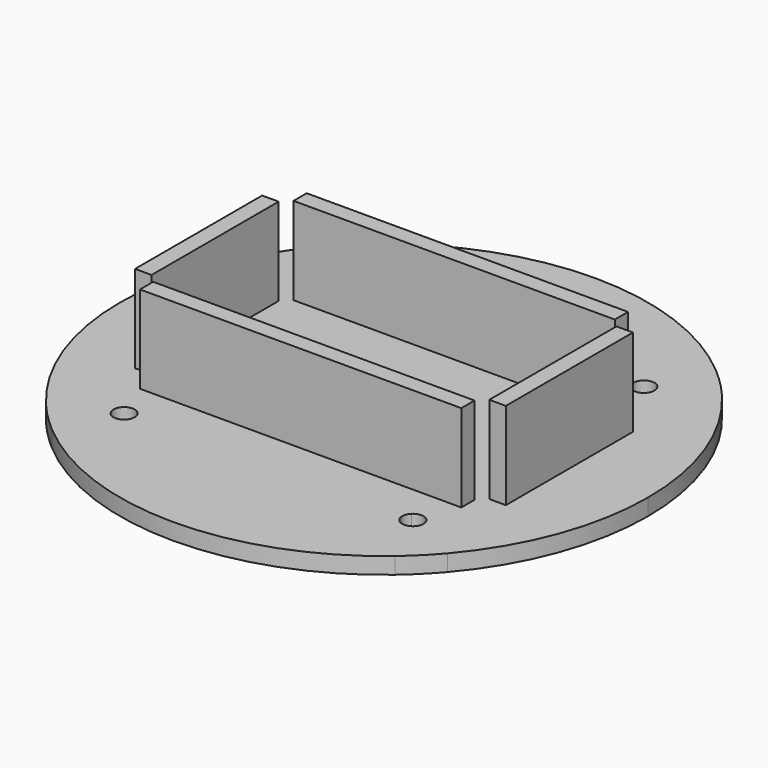
from build123d import *

# Parameters (mm, degrees)
F1_DEPTH = 2.54
F2_W     = 2.54
F2_H     = 24.46
F2_W_2   = 49.46
F2_H_2   = 2.54
F3_DEPTH = 16


with BuildPart() as f1:
    # F0 (on Top) → F1 (new body)
    with BuildSketch(Plane.XY):
        with BuildLine():
            ThreePointArc((-29.0921250892, -24.6019970286), (-38.1, 0), (-29.0921250892, 24.6019970286))
            Line((-29.0921250892, 24.6019970286), (-30.8940515778, 26.4039235173))
            ThreePointArc((-30.8940515778, 26.4039235173), (-40.64, 0), (-30.8940515778, -26.4039235173))
            Line((-30.8940515778, -26.4039235173), (-29.0921250892, -24.6019970286))
        make_face()
        with BuildLine():
            ThreePointArc((-29.0921250892, 24.6019970286), (-26.9407683632, 26.9407683632), (-24.6019970286, 29.0921250892))
            Line((-24.6019970286, 29.0921250892), (-26.4039235173, 30.8940515778))
            ThreePointArc((-26.4039235173, 30.8940515778), (-28.7368195874, 28.7368195874), (-30.8940515778, 26.4039235173))
            Line((-30.8940515778, 26.4039235173), (-29.0921250892, 24.6019970286))
        make_face()
        with BuildLine():
            Line((-26.4039235173, 30.8940515778), (-24.6019970286, 29.0921250892))
            ThreePointArc((-24.6019970286, 29.0921250892), (0, 38.1), (24.6019970286, 29.0921250892))
            Line((24.6019970286, 29.0921250892), (26.4039235173, 30.8940515778))
            ThreePointArc((26.4039235173, 30.8940515778), (0, 40.64), (-26.4039235173, 30.8940515778))
        make_face()
        with BuildLine():
            Line((26.4039235173, 30.8940515778), (24.6019970286, 29.0921250892))
            ThreePointArc((24.6019970286, 29.0921250892), (26.9407683632, 26.9407683632), (29.0921250892, 24.6019970286))
            Line((29.0921250892, 24.6019970286), (30.8940515778, 26.4039235173))
            ThreePointArc((30.8940515778, 26.4039235173), (28.7368195874, 28.7368195874), (26.4039235173, 30.8940515778))
        make_face()
        with BuildLine():
            Line((30.8940515778, 26.4039235173), (29.0921250892, 24.6019970286))
            ThreePointArc((29.0921250892, 24.6019970286), (35.7772271557, 13.0996189659), (38.1, 0))
            ThreePointArc((38.1, 0), (35.7772271557, -13.0996189659), (29.0921250892, -24.6019970286))
            Line((29.0921250892, -24.6019970286), (30.8940515778, -26.4039235173))
            ThreePointArc((30.8940515778, -26.4039235173), (38.1257383937, -14.0725858299), (40.64, 0))
            ThreePointArc((40.64, 0), (38.1257383937, 14.0725858299), (30.8940515778, 26.4039235173))
        make_face()
        with BuildLine():
            ThreePointArc((29.0921250892, -24.6019970286), (26.9407683632, -26.9407683632), (24.6019970286, -29.0921250892))
            Line((24.6019970286, -29.0921250892), (26.4039235173, -30.8940515778))
            ThreePointArc((26.4039235173, -30.8940515778), (28.7368195874, -28.7368195874), (30.8940515778, -26.4039235173))
            Line((30.8940515778, -26.4039235173), (29.0921250892, -24.6019970286))
        make_face()
        with BuildLine():
            ThreePointArc((-24.6019970286, -29.0921250892), (-26.9407683632, -26.9407683632), (-29.0921250892, -24.6019970286))
            Line((-29.0921250892, -24.6019970286), (-30.8940515778, -26.4039235173))
            ThreePointArc((-30.8940515778, -26.4039235173), (-28.7368195874, -28.7368195874), (-26.4039235173, -30.8940515778))
            Line((-26.4039235173, -30.8940515778), (-24.6019970286, -29.0921250892))
        make_face()
        with BuildLine():
            Line((-25.4, -20.9098719395), (-25.4, 20.9098719395))
            Line((-25.4, 20.9098719395), (-29.0921250892, 24.6019970286))
            ThreePointArc((-29.0921250892, 24.6019970286), (-38.1, 0), (-29.0921250892, -24.6019970286))
            Line((-29.0921250892, -24.6019970286), (-25.4, -20.9098719395))
        make_face()
        with BuildLine():
            Line((24.6019970286, 29.0921250892), (20.9098719395, 25.4))
            Line((20.9098719395, 25.4), (22.225, 25.4))
            Line((22.225, 25.4), (25.4, 25.4))
            Line((25.4, 25.4), (25.4, 22.225))
            Line((25.4, 22.225), (25.4, 20.9098719395))
            Line((25.4, 20.9098719395), (29.0921250892, 24.6019970286))
            ThreePointArc((29.0921250892, 24.6019970286), (26.9407683632, 26.9407683632), (24.6019970286, 29.0921250892))
        make_face()
        with BuildLine():
            Line((20.9098719395, -25.4), (24.6019970286, -29.0921250892))
            ThreePointArc((24.6019970286, -29.0921250892), (26.9407683632, -26.9407683632), (29.0921250892, -24.6019970286))
            Line((29.0921250892, -24.6019970286), (25.4, -20.9098719395))
            Line((25.4, -20.9098719395), (25.4, -22.225))
            Line((25.4, -22.225), (25.4, -25.4))
            Line((25.4, -25.4), (22.2249999363, -25.4))
            Line((22.2249999363, -25.4), (20.9098719395, -25.4))
        make_face()
        with BuildLine():
            Line((-25.4, -22.2250000637), (-25.4, -20.9098719395))
            Line((-25.4, -20.9098719395), (-29.0921250892, -24.6019970286))
            ThreePointArc((-29.0921250892, -24.6019970286), (-26.9407683632, -26.9407683632), (-24.6019970286, -29.0921250892))
            Line((-24.6019970286, -29.0921250892), (-20.9098719395, -25.4))
            Line((-20.9098719395, -25.4), (-22.225, -25.4))
            Line((-22.225, -25.4), (-25.4, -25.4))
            Line((-25.4, -25.4), (-25.4, -22.2250000637))
        make_face()
        with BuildLine():
            Line((-20.9098719395, -25.4), (-24.6019970286, -29.0921250892))
            ThreePointArc((-24.6019970286, -29.0921250892), (0, -38.1), (24.6019970286, -29.0921250892))
            Line((24.6019970286, -29.0921250892), (20.9098719395, -25.4))
            Line((20.9098719395, -25.4), (-20.9098719395, -25.4))
        make_face()
        with BuildLine():
            ThreePointArc((24.6019970286, -29.0921250892), (0, -38.1), (-24.6019970286, -29.0921250892))
            Line((-24.6019970286, -29.0921250892), (-26.4039235173, -30.8940515778))
            ThreePointArc((-26.4039235173, -30.8940515778), (0, -40.64), (26.4039235173, -30.8940515778))
            Line((26.4039235173, -30.8940515778), (24.6019970286, -29.0921250892))
        make_face()
        with BuildLine():
            ThreePointArc((-24.4700640303, -24.4700640303), (-25.1583175035, -23.4400199272), (-25.4, -22.2250000637))
            Line((-25.4, -22.2250000637), (-25.4, -25.4))
            Line((-25.4, -25.4), (-24.4700640303, -24.4700640303))
        make_face()
        with BuildLine():
            Line((-24.4700640303, -24.4700640303), (-25.4, -25.4))
            Line((-25.4, -25.4), (-22.225, -25.4))
            ThreePointArc((-22.225, -25.4), (-23.4400198978, -25.1583175157), (-24.4700640303, -24.4700640303))
        make_face()
        with BuildLine():
            Line((-23.3789629116, -23.3789629116), (-24.4700640303, -24.4700640303))
            ThreePointArc((-24.4700640303, -24.4700640303), (-23.4400198978, -25.1583175157), (-22.225, -25.4))
            ThreePointArc((-22.225, -25.4), (-21.0099801022, -25.1583175157), (-19.9799359697, -24.4700640303))
            ThreePointArc((-19.9799359697, -24.4700640303), (-19.2916824843, -23.4400198978), (-19.05, -22.225))
            ThreePointArc((-19.05, -22.225), (-19.2916824843, -21.0099801022), (-19.9799359697, -19.9799359697))
            Line((-19.9799359697, -19.9799359697), (-21.0710370884, -21.0710370884))
            ThreePointArc((-21.0710370884, -21.0710370884), (-20.7172747969, -21.6004797726), (-20.59305, -22.225))
            ThreePointArc((-20.59305, -22.225), (-21.6004797726, -23.7327252031), (-23.3789629116, -23.3789629116))
        make_face()
        with BuildLine():
            ThreePointArc((-24.4700640303, -19.9799359697), (-25.1583175279, -21.0099801317), (-25.4, -22.2250000637))
            ThreePointArc((-25.4, -22.2250000637), (-25.1583175035, -23.4400199272), (-24.4700640303, -24.4700640303))
            Line((-24.4700640303, -24.4700640303), (-23.3789629116, -23.3789629116))
            ThreePointArc((-23.3789629116, -23.3789629116), (-23.3789629116, -21.0710370884), (-21.0710370884, -21.0710370884))
            Line((-21.0710370884, -21.0710370884), (-19.9799359697, -19.9799359697))
            ThreePointArc((-19.9799359697, -19.9799359697), (-22.225, -19.05), (-24.4700640303, -19.9799359697))
        make_face()
        with BuildLine():
            Line((-24.4700640303, -19.9799359697), (-25.4, -20.9098719395))
            Line((-25.4, -20.9098719395), (-25.4, -22.2250000637))
            ThreePointArc((-25.4, -22.2250000637), (-25.1583175279, -21.0099801317), (-24.4700640303, -19.9799359697))
        make_face()
        with BuildLine():
            ThreePointArc((-19.9799359697, -24.4700640303), (-21.0099801022, -25.1583175157), (-22.225, -25.4))
            Line((-22.225, -25.4), (-20.9098719395, -25.4))
            Line((-20.9098719395, -25.4), (-19.9799359697, -24.4700640303))
        make_face()
        with BuildLine():
            Line((-24.4700644462, 19.9799363857), (-25.4, 20.9098719395))
            Line((-25.4, 20.9098719395), (-25.4, -20.9098719395))
            Line((-25.4, -20.9098719395), (-24.4700640303, -19.9799359697))
            ThreePointArc((-24.4700640303, -19.9799359697), (-22.225, -19.05), (-19.9799359697, -19.9799359697))
            Line((-19.9799359697, -19.9799359697), (0, 0))
            Line((0, 0), (-19.9799359697, 19.9799359697))
            ThreePointArc((-19.9799359697, 19.9799359697), (-22.2250002941, 19.05), (-24.4700644462, 19.9799363857))
        make_face()
        with BuildLine():
            Line((-24.4700640303, 24.4700640303), (-25.4, 25.4))
            Line((-25.4, 25.4), (-25.4, 22.225))
            ThreePointArc((-25.4, 22.225), (-25.1583175157, 23.4400198978), (-24.4700640303, 24.4700640303))
        make_face()
        with BuildLine():
            ThreePointArc((-24.4700644462, 19.9799363857), (-25.1583176283, 21.009980374), (-25.4, 22.225))
            Line((-25.4, 22.225), (-25.4, 20.9098719395))
            Line((-25.4, 20.9098719395), (-24.4700644462, 19.9799363857))
        make_face()
        with BuildLine():
            Line((-20.9098719395, 25.4), (-22.225, 25.4))
            ThreePointArc((-22.225, 25.4), (-21.0099800636, 25.1583174997), (-19.9799359106, 24.4700639711))
            Line((-19.9799359106, 24.4700639711), (-20.9098719395, 25.4))
        make_face()
        with BuildLine():
            Line((-22.225, 25.4), (-25.4, 25.4))
            Line((-25.4, 25.4), (-24.4700640303, 24.4700640303))
            ThreePointArc((-24.4700640303, 24.4700640303), (-23.4400198978, 25.1583175157), (-22.225, 25.4))
        make_face()
        with BuildLine():
            Line((-25.4, 22.225), (-25.4, 25.4))
            Line((-25.4, 25.4), (-22.225, 25.4))
            Line((-22.225, 25.4), (-20.9098719395, 25.4))
            Line((-20.9098719395, 25.4), (-24.6019970286, 29.0921250892))
            ThreePointArc((-24.6019970286, 29.0921250892), (-26.9407683632, 26.9407683632), (-29.0921250892, 24.6019970286))
            Line((-29.0921250892, 24.6019970286), (-25.4, 20.9098719395))
            Line((-25.4, 20.9098719395), (-25.4, 22.225))
        make_face()
        with BuildLine():
            Line((-24.6019970286, 29.0921250892), (-20.9098719395, 25.4))
            Line((-20.9098719395, 25.4), (20.9098719395, 25.4))
            Line((20.9098719395, 25.4), (24.6019970286, 29.0921250892))
            ThreePointArc((24.6019970286, 29.0921250892), (0, 38.1), (-24.6019970286, 29.0921250892))
        make_face()
        with BuildLine():
            Line((25.4, 25.4), (22.225, 25.4))
            ThreePointArc((22.225, 25.4), (23.4400198978, 25.1583175157), (24.4700640303, 24.4700640303))
            Line((24.4700640303, 24.4700640303), (25.4, 25.4))
        make_face()
        with BuildLine():
            Line((25.4, 22.225), (25.4, 25.4))
            Line((25.4, 25.4), (24.4700640303, 24.4700640303))
            ThreePointArc((24.4700640303, 24.4700640303), (25.1583175157, 23.4400198978), (25.4, 22.225))
        make_face()
        with BuildLine():
            Line((22.225, 25.4), (20.9098719395, 25.4))
            Line((20.9098719395, 25.4), (19.9799359697, 24.4700640303))
            ThreePointArc((19.9799359697, 24.4700640303), (21.0099801022, 25.1583175157), (22.225, 25.4))
        make_face()
        with BuildLine():
            Line((25.4, 20.9098719395), (25.4, 22.225))
            ThreePointArc((25.4, 22.225), (25.1583175157, 21.0099801022), (24.4700640303, 19.9799359697))
            Line((24.4700640303, 19.9799359697), (25.4, 20.9098719395))
        make_face()
        with BuildLine():
            ThreePointArc((38.1, 0), (35.7772271557, 13.0996189659), (29.0921250892, 24.6019970286))
            Line((29.0921250892, 24.6019970286), (25.4, 20.9098719395))
            Line((25.4, 20.9098719395), (25.4, -20.9098719395))
            Line((25.4, -20.9098719395), (29.0921250892, -24.6019970286))
            ThreePointArc((29.0921250892, -24.6019970286), (35.7772271557, -13.0996189659), (38.1, 0))
        make_face()
        with BuildLine():
            Line((19.9799359697, -19.9799359697), (0, 0))
            Line((0, 0), (-19.9799359697, -19.9799359697))
            ThreePointArc((-19.9799359697, -19.9799359697), (-19.2916824843, -21.0099801022), (-19.05, -22.225))
            ThreePointArc((-19.05, -22.225), (-19.2916824843, -23.4400198978), (-19.9799359697, -24.4700640303))
            Line((-19.9799359697, -24.4700640303), (-20.9098719395, -25.4))
            Line((-20.9098719395, -25.4), (20.9098719395, -25.4))
            Line((20.9098719395, -25.4), (19.9799358262, -24.4700638867))
            ThreePointArc((19.9799358262, -24.4700638867), (19.05, -22.2249998985), (19.9799359697, -19.9799359697))
        make_face()
        with BuildLine():
            Line((19.9799359697, 19.9799359697), (0, 0))
            Line((0, 0), (19.9799359697, -19.9799359697))
            ThreePointArc((19.9799359697, -19.9799359697), (22.2249999638, -19.05), (24.4700639791, -19.9799359186))
            Line((24.4700639791, -19.9799359186), (25.4, -20.9098719395))
            Line((25.4, -20.9098719395), (25.4, 20.9098719395))
            Line((25.4, 20.9098719395), (24.4700640303, 19.9799359697))
            ThreePointArc((24.4700640303, 19.9799359697), (22.225, 19.05), (19.9799359697, 19.9799359697))
        make_face()
        with BuildLine():
            Line((20.9098719395, 25.4), (-20.9098719395, 25.4))
            Line((-20.9098719395, 25.4), (-19.9799359106, 24.4700639711))
            ThreePointArc((-19.9799359106, 24.4700639711), (-19.2916824683, 23.4400198591), (-19.05, 22.225))
            ThreePointArc((-19.05, 22.225), (-19.2916824843, 21.0099801022), (-19.9799359697, 19.9799359697))
            Line((-19.9799359697, 19.9799359697), (0, 0))
            Line((0, 0), (19.9799359697, 19.9799359697))
            ThreePointArc((19.9799359697, 19.9799359697), (19.05, 22.225), (19.9799359697, 24.4700640303))
            Line((19.9799359697, 24.4700640303), (20.9098719395, 25.4))
        make_face()
        with BuildLine():
            ThreePointArc((22.2249999363, -25.4), (21.009979979, -25.1583174647), (19.9799358262, -24.4700638867))
            Line((19.9799358262, -24.4700638867), (20.9098719395, -25.4))
            Line((20.9098719395, -25.4), (22.2249999363, -25.4))
        make_face()
        with BuildLine():
            ThreePointArc((24.4700640303, -24.4700640303), (23.4400198683, -25.1583175279), (22.2249999363, -25.4))
            Line((22.2249999363, -25.4), (25.4, -25.4))
            Line((25.4, -25.4), (24.4700640303, -24.4700640303))
        make_face()
        with BuildLine():
            Line((25.4, -25.4), (25.4, -22.225))
            ThreePointArc((25.4, -22.225), (25.1583175157, -23.4400198978), (24.4700640303, -24.4700640303))
            Line((24.4700640303, -24.4700640303), (25.4, -25.4))
        make_face()
        with BuildLine():
            Line((25.4, -20.9098719395), (24.4700639791, -19.9799359186))
            ThreePointArc((24.4700639791, -19.9799359186), (25.1583175019, -21.0099800688), (25.4, -22.225))
            Line((25.4, -22.225), (25.4, -20.9098719395))
        make_face()
        with BuildLine():
            ThreePointArc((-24.4700640303, 24.4700640303), (-25.1583175157, 23.4400198978), (-25.4, 22.225))
            ThreePointArc((-25.4, 22.225), (-25.1583176283, 21.009980374), (-24.4700644462, 19.9799363857))
            ThreePointArc((-24.4700644462, 19.9799363857), (-22.2250002941, 19.05), (-19.9799359697, 19.9799359697))
            Line((-19.9799359697, 19.9799359697), (-21.0710370884, 21.0710370884))
            ThreePointArc((-21.0710370884, 21.0710370884), (-23.3789629116, 21.0710370884), (-23.3789629116, 23.3789629116))
            Line((-23.3789629116, 23.3789629116), (-24.4700640303, 24.4700640303))
        make_face()
        with BuildLine():
            ThreePointArc((-19.9799359106, 24.4700639711), (-21.0099800636, 25.1583174997), (-22.225, 25.4))
            ThreePointArc((-22.225, 25.4), (-23.4400198978, 25.1583175157), (-24.4700640303, 24.4700640303))
            Line((-24.4700640303, 24.4700640303), (-23.3789629116, 23.3789629116))
            ThreePointArc((-23.3789629116, 23.3789629116), (-21.6004797726, 23.7327252031), (-20.59305, 22.225))
            ThreePointArc((-20.59305, 22.225), (-20.7172747969, 21.6004797726), (-21.0710370884, 21.0710370884))
            Line((-21.0710370884, 21.0710370884), (-19.9799359697, 19.9799359697))
            ThreePointArc((-19.9799359697, 19.9799359697), (-19.2916824843, 21.0099801022), (-19.05, 22.225))
            ThreePointArc((-19.05, 22.225), (-19.2916824683, 23.4400198591), (-19.9799359106, 24.4700639711))
        make_face()
        with BuildLine():
            ThreePointArc((24.4700640303, 24.4700640303), (23.4400198978, 25.1583175157), (22.225, 25.4))
            ThreePointArc((22.225, 25.4), (21.0099801022, 25.1583175157), (19.9799359697, 24.4700640303))
            ThreePointArc((19.9799359697, 24.4700640303), (19.05, 22.225), (19.9799359697, 19.9799359697))
            Line((19.9799359697, 19.9799359697), (21.0710370884, 21.0710370884))
            ThreePointArc((21.0710370884, 21.0710370884), (21.0710370884, 23.3789629116), (23.3789629116, 23.3789629116))
            Line((23.3789629116, 23.3789629116), (24.4700640303, 24.4700640303))
        make_face()
        with BuildLine():
            ThreePointArc((25.4, 22.225), (25.1583175157, 23.4400198978), (24.4700640303, 24.4700640303))
            Line((24.4700640303, 24.4700640303), (23.3789629116, 23.3789629116))
            ThreePointArc((23.3789629116, 23.3789629116), (23.7327252031, 22.8495202274), (23.85695, 22.225))
            ThreePointArc((23.85695, 22.225), (22.8495202274, 20.7172747969), (21.0710370884, 21.0710370884))
            Line((21.0710370884, 21.0710370884), (19.9799359697, 19.9799359697))
            ThreePointArc((19.9799359697, 19.9799359697), (22.225, 19.05), (24.4700640303, 19.9799359697))
            ThreePointArc((24.4700640303, 19.9799359697), (25.1583175157, 21.0099801022), (25.4, 22.225))
        make_face()
        with BuildLine():
            Line((21.0710370884, -21.0710370884), (19.9799359697, -19.9799359697))
            ThreePointArc((19.9799359697, -19.9799359697), (19.05, -22.2249998985), (19.9799358262, -24.4700638867))
            ThreePointArc((19.9799358262, -24.4700638867), (21.009979979, -25.1583174647), (22.2249999363, -25.4))
            ThreePointArc((22.2249999363, -25.4), (23.4400198683, -25.1583175279), (24.4700640303, -24.4700640303))
            Line((24.4700640303, -24.4700640303), (23.3789629116, -23.3789629116))
            ThreePointArc((23.3789629116, -23.3789629116), (21.0710370884, -23.3789629116), (21.0710370884, -21.0710370884))
        make_face()
        with BuildLine():
            ThreePointArc((24.4700639791, -19.9799359186), (22.2249999638, -19.05), (19.9799359697, -19.9799359697))
            Line((19.9799359697, -19.9799359697), (21.0710370884, -21.0710370884))
            ThreePointArc((21.0710370884, -21.0710370884), (22.8495202274, -20.7172747969), (23.85695, -22.225))
            ThreePointArc((23.85695, -22.225), (23.7327252031, -22.8495202274), (23.3789629116, -23.3789629116))
            Line((23.3789629116, -23.3789629116), (24.4700640303, -24.4700640303))
            ThreePointArc((24.4700640303, -24.4700640303), (25.1583175157, -23.4400198978), (25.4, -22.225))
            ThreePointArc((25.4, -22.225), (25.1583175019, -21.0099800688), (24.4700639791, -19.9799359186))
        make_face()
    extrude(amount=F1_DEPTH)

    # F2 (on Top) → F3 (join)
    with BuildSketch(Plane.XY):
        with Locations((-27.27, 0)):
            Rectangle(F2_W, F2_H)
        with Locations((0, 14.77)):
            Rectangle(F2_W_2, F2_H_2)
        with Locations((27.27, 0)):
            Rectangle(F2_W, F2_H)
        with Locations((0, -14.77)):
            Rectangle(F2_W_2, F2_H_2)
    extrude(amount=F3_DEPTH)


solid = f1.part
